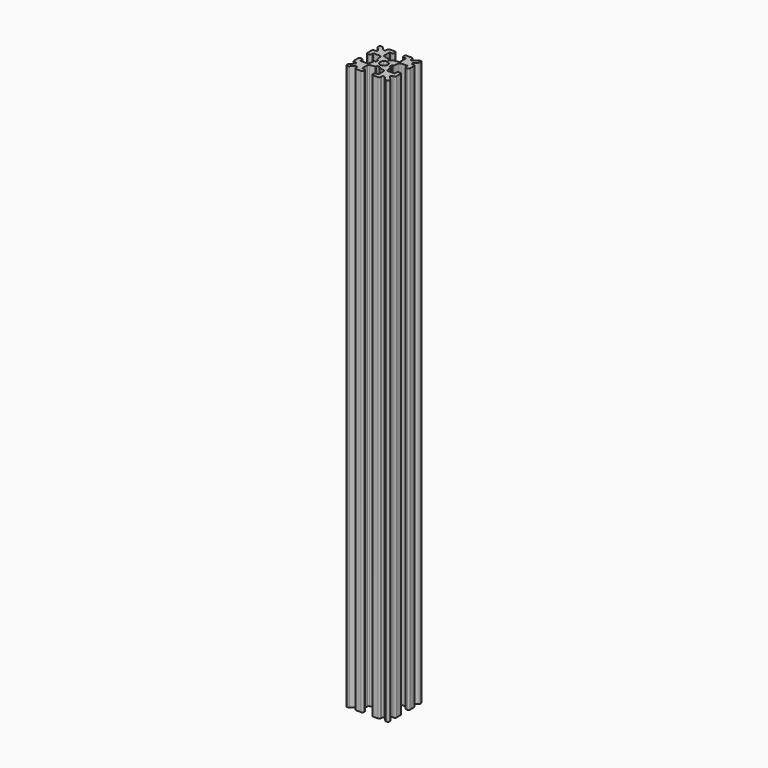
from build123d import *

# Parameters (mm, degrees)
F1_DEPTH = 200


with BuildPart() as f1:
    # F0 (on Top) → F1 (new body)
    with BuildSketch(Plane.XY):
        with BuildLine():
            Line((-35.562015, 8.3503), (-35.562015, 8.067457))
            ThreePointArc((-35.562015, 8.067457), (-35.415568, 7.713904), (-35.062015, 7.567457))
            Line((-35.062015, 7.567457), (-34.779172, 7.567457))
            ThreePointArc((-34.779172, 7.567457), (-34.58783, 7.605518), (-34.425618, 7.713904))
            Line((-34.425618, 7.713904), (-33.318512, 8.821011))
            ThreePointArc((-33.318512, 8.821011), (-32.773617, 8.929397), (-32.464958, 8.467457))
            Line((-32.464958, 8.467457), (-32.464958, 8.067457))
            ThreePointArc((-32.464958, 8.067457), (-32.318512, 7.713904), (-31.964958, 7.567457))
            Line((-31.964958, 7.567457), (-30.162015, 7.567457))
            ThreePointArc((-30.162015, 7.567457), (-29.808461, 7.713904), (-29.662015, 8.067457))
            Line((-29.662015, 8.067457), (-29.662015, 8.467457))
            ThreePointArc((-29.662015, 8.467457), (-29.808461, 8.821011), (-30.162015, 8.967457))
            Line((-30.162015, 8.967457), (-30.762015, 8.967457))
            ThreePointArc((-30.762015, 8.967457), (-30.903436, 9.026036), (-30.962015, 9.167457))
            Line((-30.962015, 9.167457), (-30.962015, 11.329528))
            ThreePointArc((-30.962015, 11.329528), (-30.845648, 11.650192), (-30.550714, 11.821597))
            Line((-30.550714, 11.821597), (-28.796535, 12.137801))
            ThreePointArc((-28.796535, 12.137801), (-28.678561, 12.206364), (-28.632015, 12.334629))
            Line((-28.632015, 12.334629), (-28.632015, 12.467457))
            ThreePointArc((-28.632015, 12.467457), (-28.573436, 12.608879), (-28.432015, 12.667457))
            Line((-28.432015, 12.667457), (-28.062015, 12.667457))
            Line((-28.062015, 12.667457), (-27.692015, 12.667457))
            ThreePointArc((-27.692015, 12.667457), (-27.550593, 12.608879), (-27.492015, 12.467457))
            Line((-27.492015, 12.467457), (-27.492015, 12.334629))
            ThreePointArc((-27.492015, 12.334629), (-27.445468, 12.206364), (-27.327494, 12.137801))
            Line((-27.327494, 12.137801), (-25.573315, 11.821597))
            ThreePointArc((-25.573315, 11.821597), (-25.278381, 11.650192), (-25.162015, 11.329528))
            Line((-25.162015, 11.329528), (-25.162015, 9.167457))
            ThreePointArc((-25.162015, 9.167457), (-25.220593, 9.026036), (-25.362015, 8.967457))
            Line((-25.362015, 8.967457), (-25.962015, 8.967457))
            ThreePointArc((-25.962015, 8.967457), (-26.315568, 8.821011), (-26.462015, 8.467457))
            Line((-26.462015, 8.467457), (-26.462015, 8.067457))
            ThreePointArc((-26.462015, 8.067457), (-26.315568, 7.713904), (-25.962015, 7.567457))
            Line((-25.962015, 7.567457), (-24.159071, 7.567457))
            ThreePointArc((-24.159071, 7.567457), (-23.805517, 7.713904), (-23.659071, 8.067457))
            Line((-23.659071, 8.067457), (-23.659071, 8.467457))
            ThreePointArc((-23.659071, 8.467457), (-23.350413, 8.929397), (-22.805517, 8.821011))
            Line((-22.805517, 8.821011), (-21.698411, 7.713904))
            ThreePointArc((-21.698411, 7.713904), (-21.536199, 7.605518), (-21.344857, 7.567457))
            Line((-21.344857, 7.567457), (-21.062015, 7.567457))
            ThreePointArc((-21.062015, 7.567457), (-20.708461, 7.713904), (-20.562015, 8.067457))
            Line((-20.562015, 8.067457), (-20.562015, 8.3503))
            ThreePointArc((-20.562015, 8.3503), (-20.600075, 8.541642), (-20.708461, 8.703853))
            Line((-20.708461, 8.703853), (-21.815568, 9.81096))
            ThreePointArc((-21.815568, 9.81096), (-21.923954, 10.355855), (-21.462015, 10.664514))
            Line((-21.462015, 10.664514), (-21.062015, 10.664514))
            ThreePointArc((-21.062015, 10.664514), (-20.708461, 10.81096), (-20.562015, 11.164514))
            Line((-20.562015, 11.164514), (-20.562015, 12.967457))
            ThreePointArc((-20.562015, 12.967457), (-20.708461, 13.321011), (-21.062015, 13.467457))
            Line((-21.062015, 13.467457), (-21.462015, 13.467457))
            ThreePointArc((-21.462015, 13.467457), (-21.815568, 13.321011), (-21.962015, 12.967457))
            Line((-21.962015, 12.967457), (-21.962015, 12.367457))
            ThreePointArc((-21.962015, 12.367457), (-22.020593, 12.226036), (-22.162015, 12.167457))
            Line((-22.162015, 12.167457), (-24.324085, 12.167457))
            ThreePointArc((-24.324085, 12.167457), (-24.644749, 12.283824), (-24.816155, 12.578758))
            Line((-24.816155, 12.578758), (-25.132359, 14.332937))
            ThreePointArc((-25.132359, 14.332937), (-25.200921, 14.450911), (-25.329186, 14.497457))
            Line((-25.329186, 14.497457), (-25.462015, 14.497457))
            ThreePointArc((-25.462015, 14.497457), (-25.603436, 14.556036), (-25.662015, 14.697457))
            Line((-25.662015, 14.697457), (-25.662015, 15.067457))
            Line((-25.662015, 15.067457), (-25.662015, 15.437457))
            ThreePointArc((-25.662015, 15.437457), (-25.603436, 15.578879), (-25.462015, 15.637457))
            Line((-25.462015, 15.637457), (-25.329186, 15.637457))
            ThreePointArc((-25.329186, 15.637457), (-25.200921, 15.684004), (-25.132359, 15.801978))
            Line((-25.132359, 15.801978), (-24.816155, 17.556157))
            ThreePointArc((-24.816155, 17.556157), (-24.644749, 17.851091), (-24.324085, 17.967457))
            Line((-24.324085, 17.967457), (-22.162015, 17.967457))
            ThreePointArc((-22.162015, 17.967457), (-22.020593, 17.908879), (-21.962015, 17.767457))
            Line((-21.962015, 17.767457), (-21.962015, 17.167457))
            ThreePointArc((-21.962015, 17.167457), (-21.815568, 16.813904), (-21.462015, 16.667457))
            Line((-21.462015, 16.667457), (-21.062015, 16.667457))
            ThreePointArc((-21.062015, 16.667457), (-20.708461, 16.813904), (-20.562015, 17.167457))
            Line((-20.562015, 17.167457), (-20.562015, 18.970401))
            ThreePointArc((-20.562015, 18.970401), (-20.708461, 19.323955), (-21.062015, 19.470401))
            Line((-21.062015, 19.470401), (-21.462015, 19.470401))
            ThreePointArc((-21.462015, 19.470401), (-21.923954, 19.779059), (-21.815568, 20.323955))
            Line((-21.815568, 20.323955), (-20.708461, 21.431061))
            ThreePointArc((-20.708461, 21.431061), (-20.600075, 21.593273), (-20.562015, 21.784615))
            Line((-20.562015, 21.784615), (-20.562015, 22.067457))
            ThreePointArc((-20.562015, 22.067457), (-20.708461, 22.421011), (-21.062015, 22.567457))
            Line((-21.062015, 22.567457), (-21.344857, 22.567457))
            ThreePointArc((-21.344857, 22.567457), (-21.536199, 22.529397), (-21.698411, 22.421011))
            Line((-21.698411, 22.421011), (-22.805517, 21.313904))
            ThreePointArc((-22.805517, 21.313904), (-23.350413, 21.205518), (-23.659071, 21.667457))
            Line((-23.659071, 21.667457), (-23.659071, 22.067457))
            ThreePointArc((-23.659071, 22.067457), (-23.805517, 22.421011), (-24.159071, 22.567457))
            Line((-24.159071, 22.567457), (-25.962015, 22.567457))
            ThreePointArc((-25.962015, 22.567457), (-26.315568, 22.421011), (-26.462015, 22.067457))
            Line((-26.462015, 22.067457), (-26.462015, 21.667457))
            ThreePointArc((-26.462015, 21.667457), (-26.315568, 21.313904), (-25.962015, 21.167457))
            Line((-25.962015, 21.167457), (-25.362015, 21.167457))
            ThreePointArc((-25.362015, 21.167457), (-25.220593, 21.108879), (-25.162015, 20.967457))
            Line((-25.162015, 20.967457), (-25.162015, 18.805387))
            ThreePointArc((-25.162015, 18.805387), (-25.278381, 18.484723), (-25.573315, 18.313317))
            Line((-25.573315, 18.313317), (-27.327494, 17.997113))
            ThreePointArc((-27.327494, 17.997113), (-27.445468, 17.928551), (-27.492015, 17.800286))
            Line((-27.492015, 17.800286), (-27.492015, 17.667457))
            ThreePointArc((-27.492015, 17.667457), (-27.550593, 17.526036), (-27.692015, 17.467457))
            Line((-27.692015, 17.467457), (-28.062015, 17.467457))
            Line((-28.062015, 17.467457), (-28.432015, 17.467457))
            ThreePointArc((-28.432015, 17.467457), (-28.573436, 17.526036), (-28.632015, 17.667457))
            Line((-28.632015, 17.667457), (-28.632015, 17.800286))
            ThreePointArc((-28.632015, 17.800286), (-28.678561, 17.928551), (-28.796535, 17.997113))
            Line((-28.796535, 17.997113), (-30.550714, 18.313317))
            ThreePointArc((-30.550714, 18.313317), (-30.845648, 18.484723), (-30.962015, 18.805387))
            Line((-30.962015, 18.805387), (-30.962015, 20.967457))
            ThreePointArc((-30.962015, 20.967457), (-30.903436, 21.108879), (-30.762015, 21.167457))
            Line((-30.762015, 21.167457), (-30.162015, 21.167457))
            ThreePointArc((-30.162015, 21.167457), (-29.808461, 21.313904), (-29.662015, 21.667457))
            Line((-29.662015, 21.667457), (-29.662015, 22.067457))
            ThreePointArc((-29.662015, 22.067457), (-29.808461, 22.421011), (-30.162015, 22.567457))
            Line((-30.162015, 22.567457), (-31.964958, 22.567457))
            ThreePointArc((-31.964958, 22.567457), (-32.318512, 22.421011), (-32.464958, 22.067457))
            Line((-32.464958, 22.067457), (-32.464958, 21.667457))
            ThreePointArc((-32.464958, 21.667457), (-32.773617, 21.205518), (-33.318512, 21.313904))
            Line((-33.318512, 21.313904), (-34.425618, 22.421011))
            ThreePointArc((-34.425618, 22.421011), (-34.58783, 22.529397), (-34.779172, 22.567457))
            Line((-34.779172, 22.567457), (-35.062015, 22.567457))
            ThreePointArc((-35.062015, 22.567457), (-35.415568, 22.421011), (-35.562015, 22.067457))
            Line((-35.562015, 22.067457), (-35.562015, 21.784615))
            ThreePointArc((-35.562015, 21.784615), (-35.523954, 21.593273), (-35.415568, 21.431061))
            Line((-35.415568, 21.431061), (-34.308461, 20.323955))
            ThreePointArc((-34.308461, 20.323955), (-34.200075, 19.779059), (-34.662015, 19.470401))
            Line((-34.662015, 19.470401), (-35.062015, 19.470401))
            ThreePointArc((-35.062015, 19.470401), (-35.415568, 19.323955), (-35.562015, 18.970401))
            Line((-35.562015, 18.970401), (-35.562015, 17.167457))
            ThreePointArc((-35.562015, 17.167457), (-35.415568, 16.813904), (-35.062015, 16.667457))
            Line((-35.062015, 16.667457), (-34.662015, 16.667457))
            ThreePointArc((-34.662015, 16.667457), (-34.308461, 16.813904), (-34.162015, 17.167457))
            Line((-34.162015, 17.167457), (-34.162015, 17.767457))
            ThreePointArc((-34.162015, 17.767457), (-34.103436, 17.908879), (-33.962015, 17.967457))
            Line((-33.962015, 17.967457), (-31.799944, 17.967457))
            ThreePointArc((-31.799944, 17.967457), (-31.47928, 17.851091), (-31.307875, 17.556157))
            Line((-31.307875, 17.556157), (-30.991671, 15.801978))
            ThreePointArc((-30.991671, 15.801978), (-30.923108, 15.684004), (-30.794843, 15.637457))
            Line((-30.794843, 15.637457), (-30.662015, 15.637457))
            ThreePointArc((-30.662015, 15.637457), (-30.520593, 15.578879), (-30.462015, 15.437457))
            Line((-30.462015, 15.437457), (-30.462015, 15.067457))
            Line((-30.462015, 15.067457), (-30.462015, 14.697457))
            ThreePointArc((-30.462015, 14.697457), (-30.520593, 14.556036), (-30.662015, 14.497457))
            Line((-30.662015, 14.497457), (-30.794843, 14.497457))
            ThreePointArc((-30.794843, 14.497457), (-30.923108, 14.450911), (-30.991671, 14.332937))
            Line((-30.991671, 14.332937), (-31.307875, 12.578758))
            ThreePointArc((-31.307875, 12.578758), (-31.47928, 12.283824), (-31.799944, 12.167457))
            Line((-31.799944, 12.167457), (-33.962015, 12.167457))
            ThreePointArc((-33.962015, 12.167457), (-34.103436, 12.226036), (-34.162015, 12.367457))
            Line((-34.162015, 12.367457), (-34.162015, 12.967457))
            ThreePointArc((-34.162015, 12.967457), (-34.308461, 13.321011), (-34.662015, 13.467457))
            Line((-34.662015, 13.467457), (-35.062015, 13.467457))
            ThreePointArc((-35.062015, 13.467457), (-35.415568, 13.321011), (-35.562015, 12.967457))
            Line((-35.562015, 12.967457), (-35.562015, 11.164514))
            ThreePointArc((-35.562015, 11.164514), (-35.415568, 10.81096), (-35.062015, 10.664514))
            Line((-35.062015, 10.664514), (-34.662015, 10.664514))
            ThreePointArc((-34.662015, 10.664514), (-34.200075, 10.355855), (-34.308461, 9.81096))
            Line((-34.308461, 9.81096), (-35.415568, 8.703853))
            ThreePointArc((-35.415568, 8.703853), (-35.523954, 8.541642), (-35.562015, 8.3503))
        make_face()
        with BuildLine():
            ThreePointArc((-29.016609, 14.112863), (-29.309252, 14.550835), (-29.412015, 15.067457))
            ThreePointArc((-29.412015, 15.067457), (-29.309252, 15.58408), (-29.016609, 16.022052))
            ThreePointArc((-29.016609, 16.022052), (-28.578637, 16.314695), (-28.062015, 16.417457))
            ThreePointArc((-28.062015, 16.417457), (-27.545392, 16.314695), (-27.10742, 16.022052))
            ThreePointArc((-27.10742, 16.022052), (-26.814777, 15.58408), (-26.712015, 15.067457))
            ThreePointArc((-26.712015, 15.067457), (-26.814777, 14.550835), (-27.10742, 14.112863))
            ThreePointArc((-27.10742, 14.112863), (-27.545392, 13.82022), (-28.062015, 13.717457))
            ThreePointArc((-28.062015, 13.717457), (-28.578637, 13.82022), (-29.016609, 14.112863))
        make_face(mode=Mode.SUBTRACT)
    extrude(amount=F1_DEPTH)


solid = f1.part
